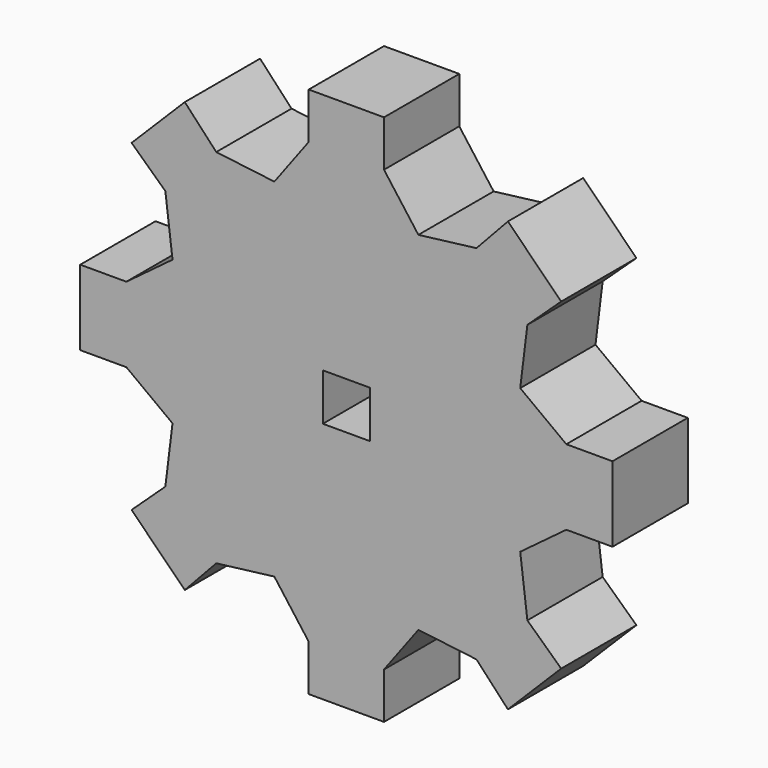
from build123d import *

# Parameters (mm, degrees)
F1_DEPTH = 12.7
F2_W     = 3.175
F2_H     = 3.175
F3_DEPTH = 12.7


with BuildPart() as f1:
    # F0 (on Front) → F1 (new body)
    with BuildSketch(Plane.XZ):
        with BuildLine():
            ThreePointArc((-9.720155, 23.466542), (-4.955292, 24.911947), (0, 25.4))
            Line((0, 25.4), (0, 35.921036))
            Line((0, 35.921036), (-5.08, 35.921036))
            Line((-5.08, 35.921036), (-5.08, 29.691848))
            Line((-5.08, 29.691848), (-9.720155, 23.466542))
        make_face()
        with BuildLine():
            ThreePointArc((0, 25.4), (4.955292, 24.911947), (9.720155, 23.466542))
            Line((9.720155, 23.466542), (5.08, 29.693789))
            Line((5.08, 29.693789), (5.08, 35.921036))
            Line((5.08, 35.921036), (0, 35.921036))
            Line((0, 35.921036), (0, 25.4))
        make_face()
        with BuildLine():
            ThreePointArc((9.720155, 23.466542), (17.960512, 17.960512), (23.466542, 9.720155))
            Line((23.466542, 9.720155), (24.433271, 17.560077))
            Line((24.433271, 17.560077), (28.992102, 21.807898))
            Line((28.992102, 21.807898), (25.4, 25.4))
            Line((25.4, 25.4), (21.807898, 28.992102))
            Line((21.807898, 28.992102), (17.560077, 24.433271))
            Line((17.560077, 24.433271), (9.720155, 23.466542))
        make_face()
        with BuildLine():
            ThreePointArc((23.466542, 9.720155), (24.911947, 4.955292), (25.4, 0))
            Line((25.4, 0), (35.921036, 0))
            Line((35.921036, 0), (35.921036, 5.08))
            Line((35.921036, 5.08), (29.691848, 5.08))
            Line((29.691848, 5.08), (23.466542, 9.720155))
        make_face()
        with BuildLine():
            Line((35.921036, 0), (25.4, 0))
            ThreePointArc((25.4, 0), (24.911947, -4.955292), (23.466542, -9.720155))
            Line((23.466542, -9.720155), (29.693789, -5.08))
            Line((29.693789, -5.08), (35.921036, -5.08))
            Line((35.921036, -5.08), (35.921036, 0))
        make_face()
        with BuildLine():
            Line((24.433271, -17.560077), (23.466542, -9.720155))
            ThreePointArc((23.466542, -9.720155), (17.960512, -17.960512), (9.720155, -23.466542))
            Line((9.720155, -23.466542), (17.560077, -24.433271))
            Line((17.560077, -24.433271), (21.807898, -28.992102))
            Line((21.807898, -28.992102), (25.4, -25.4))
            Line((25.4, -25.4), (28.992102, -21.807898))
            Line((28.992102, -21.807898), (24.433271, -17.560077))
        make_face()
        with BuildLine():
            Line((5.08, -29.691848), (9.720155, -23.466542))
            ThreePointArc((9.720155, -23.466542), (4.955292, -24.911947), (0, -25.4))
            Line((0, -25.4), (0, -35.921036))
            Line((0, -35.921036), (5.08, -35.921036))
            Line((5.08, -35.921036), (5.08, -29.691848))
        make_face()
        with BuildLine():
            Line((0, -35.921036), (0, -25.4))
            ThreePointArc((0, -25.4), (-4.955292, -24.911947), (-9.720155, -23.466542))
            Line((-9.720155, -23.466542), (-5.08, -29.693789))
            Line((-5.08, -29.693789), (-5.08, -35.921036))
            Line((-5.08, -35.921036), (0, -35.921036))
        make_face()
        with BuildLine():
            ThreePointArc((-9.720155, -23.466542), (-17.960512, -17.960512), (-23.466542, -9.720155))
            Line((-23.466542, -9.720155), (-24.433271, -17.560077))
            Line((-24.433271, -17.560077), (-28.992102, -21.807898))
            Line((-28.992102, -21.807898), (-25.4, -25.4))
            Line((-25.4, -25.4), (-21.807898, -28.992102))
            Line((-21.807898, -28.992102), (-17.560077, -24.433271))
            Line((-17.560077, -24.433271), (-9.720155, -23.466542))
        make_face()
        with BuildLine():
            ThreePointArc((-23.466542, -9.720155), (-24.911947, -4.955292), (-25.4, 0))
            Line((-25.4, 0), (-35.921036, 0))
            Line((-35.921036, 0), (-35.921036, -5.08))
            Line((-35.921036, -5.08), (-29.691848, -5.08))
            Line((-29.691848, -5.08), (-23.466542, -9.720155))
        make_face()
        with BuildLine():
            Line((-35.921036, 0), (-25.4, 0))
            ThreePointArc((-25.4, 0), (-24.911947, 4.955292), (-23.466542, 9.720155))
            Line((-23.466542, 9.720155), (-29.693789, 5.08))
            Line((-29.693789, 5.08), (-35.921036, 5.08))
            Line((-35.921036, 5.08), (-35.921036, 0))
        make_face()
        with BuildLine():
            Line((-24.433271, 17.560077), (-23.466542, 9.720155))
            ThreePointArc((-23.466542, 9.720155), (-17.960512, 17.960512), (-9.720155, 23.466542))
            Line((-9.720155, 23.466542), (-17.560077, 24.433271))
            Line((-17.560077, 24.433271), (-21.807898, 28.992102))
            Line((-21.807898, 28.992102), (-25.4, 25.4))
            Line((-25.4, 25.4), (-28.992102, 21.807898))
            Line((-28.992102, 21.807898), (-24.433271, 17.560077))
        make_face()
        with BuildLine():
            Line((-25.4, 0), (0, 0))
            Line((0, 0), (0, 25.4))
            ThreePointArc((0, 25.4), (-4.955292, 24.911947), (-9.720155, 23.466542))
            ThreePointArc((-9.720155, 23.466542), (-17.960512, 17.960512), (-23.466542, 9.720155))
            ThreePointArc((-23.466542, 9.720155), (-24.911947, 4.955292), (-25.4, 0))
        make_face()
        with BuildLine():
            Line((0, 0), (25.4, 0))
            ThreePointArc((25.4, 0), (24.911947, 4.955292), (23.466542, 9.720155))
            ThreePointArc((23.466542, 9.720155), (17.960512, 17.960512), (9.720155, 23.466542))
            ThreePointArc((9.720155, 23.466542), (4.955292, 24.911947), (0, 25.4))
            Line((0, 25.4), (0, 0))
        make_face()
        with BuildLine():
            ThreePointArc((23.466542, -9.720155), (24.911947, -4.955292), (25.4, 0))
            Line((25.4, 0), (0, 0))
            Line((0, 0), (0, -25.4))
            ThreePointArc((0, -25.4), (4.955292, -24.911947), (9.720155, -23.466542))
            ThreePointArc((9.720155, -23.466542), (17.960512, -17.960512), (23.466542, -9.720155))
        make_face()
        with BuildLine():
            Line((0, -25.4), (0, 0))
            Line((0, 0), (-25.4, 0))
            ThreePointArc((-25.4, 0), (-24.911947, -4.955292), (-23.466542, -9.720155))
            ThreePointArc((-23.466542, -9.720155), (-17.960512, -17.960512), (-9.720155, -23.466542))
            ThreePointArc((-9.720155, -23.466542), (-4.955292, -24.911947), (0, -25.4))
        make_face()
    extrude(amount=F1_DEPTH)

    # F2 (on face) → F3 (cut)
    with BuildSketch(Plane.XZ.offset(12.7)):
        with Locations((1.5875, -1.5875)):
            Rectangle(F2_W, F2_H)
        with Locations((-1.5875, -1.5875)):
            Rectangle(F2_W, F2_H)
        with Locations((1.5875, 1.5875)):
            Rectangle(F2_W, F2_H)
        with Locations((-1.5875, 1.5875)):
            Rectangle(F2_W, F2_H)
    extrude(amount=-F3_DEPTH, mode=Mode.SUBTRACT)


solid = f1.part
